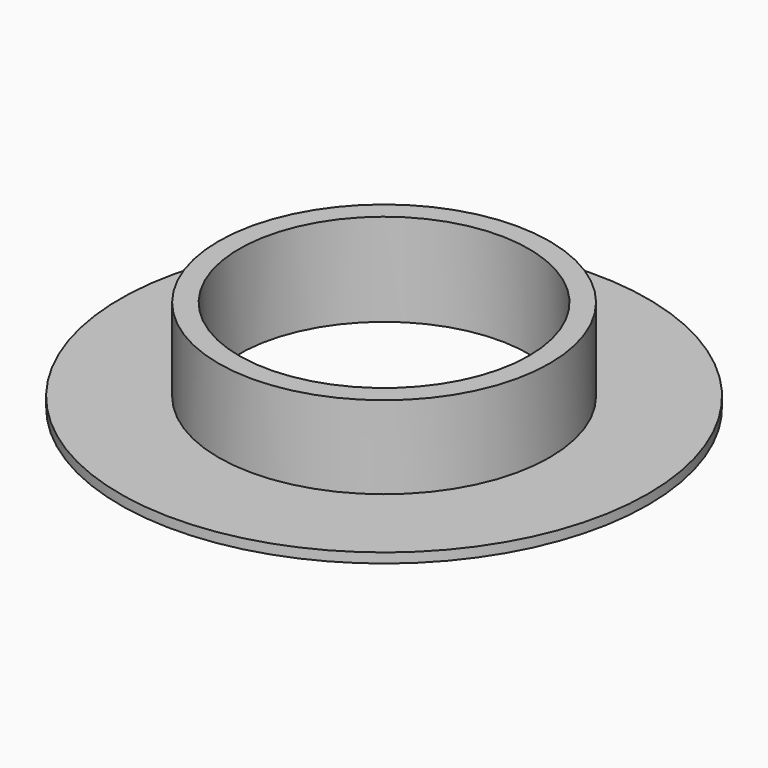
from build123d import *

# Parameters (mm, degrees)
F0_R     = 81
F1_DEPTH = 3
F2_R     = 50.8
F3_DEPTH = 25.4
F4_R     = 44.45
F5_DEPTH = 28.401


with BuildPart() as f1:
    # F0 (on Top) → F1 (new body)
    with BuildSketch(Plane.XY):
        Circle(F0_R)
    extrude(amount=F1_DEPTH)

    # F2 (on face) → F3 (join)
    with BuildSketch(Plane.XY.offset(3)):
        Circle(F2_R)
    extrude(amount=F3_DEPTH)

    # F4 (on face) → F5 (cut, through all)
    with BuildSketch(Plane.XY.offset(28.4)):
        Circle(F4_R)
    extrude(amount=-F5_DEPTH, mode=Mode.SUBTRACT)


solid = f1.part
